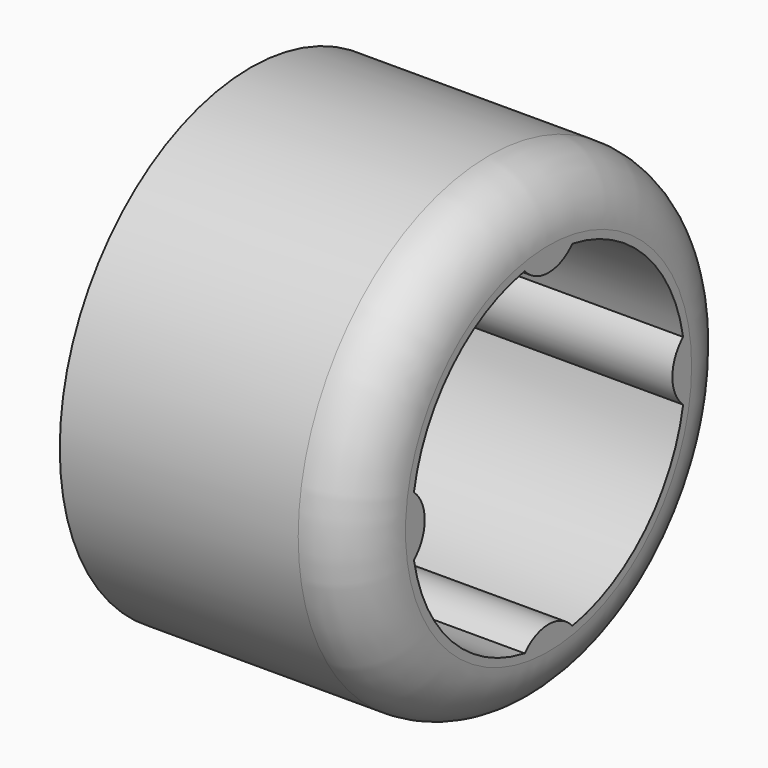
from build123d import *

# Parameters (mm, degrees)
SKETCH_R  = 6
PAD_DEPTH = 7.5
FILLET_R  = 1.5


with BuildPart() as part:
    # Sketch → Pad (new body)
    with BuildSketch(Plane.YZ):
        Circle(SKETCH_R)
        with BuildLine():
            ThreePointArc((-0.75, 4.234088), (0, 3.895526), (0.75, 4.234088))
            ThreePointArc((4.234088, 0.75), (3.040559, 3.040559), (0.75, 4.234088))
            ThreePointArc((4.234088, 0.75), (3.895526, 0), (4.234088, -0.75))
            ThreePointArc((0.75, -4.234088), (3.040559, -3.040559), (4.234088, -0.75))
            ThreePointArc((0.75, -4.234088), (0, -3.895526), (-0.75, -4.234088))
            ThreePointArc((-4.234088, -0.75), (-3.040559, -3.040559), (-0.75, -4.234088))
            ThreePointArc((-4.234088, -0.75), (-3.895526, 0), (-4.234088, 0.75))
            ThreePointArc((-0.75, 4.234088), (-3.040559, 3.040559), (-4.234088, 0.75))
        make_face(mode=Mode.SUBTRACT)
    extrude(amount=PAD_DEPTH)

    # Fillet
    fillet_edges = [part.edges().sort_by_distance(p)[0] for p in [
        (7.5, -6, 0),
    ]]
    fillet(fillet_edges, radius=FILLET_R)


solid = part.part
